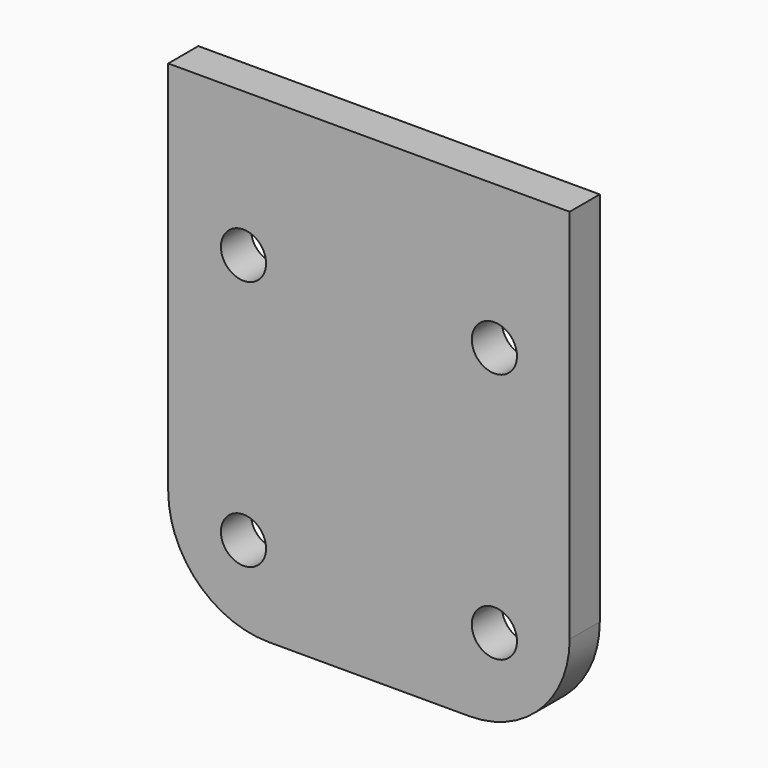
from build123d import *

# Parameters (mm, degrees)
CYLINDER007_R            = 1.8
CYLINDER007_DEPTH        = 10
ARRAY004_X_COUNT         = 2
ARRAY004_X_PITCH         = 20
ARRAY004_Y_COUNT         = 2
ARRAY004_Y_PITCH         = 20
ARRAY004_PLACEMENT_ANGLE = 90
BOX021_W                 = 32
BOX021_H                 = 3
BOX021_DEPTH             = 38
FILLET_R                 = 8


with BuildPart() as top_bolt_hole_array:
    # Cylinder007 → Cylinder007 (new body)
    with BuildSketch(Plane.XY):
        Circle(CYLINDER007_R)
    extrude(amount=CYLINDER007_DEPTH)

    # Array004 X: top bolt hole array ×2


with BuildPart() as top_bolt_hole_array_1:
    add(top_bolt_hole_array.part)
    with Locations(*[(i * ARRAY004_X_PITCH, 0, 0) for i in range(1, ARRAY004_X_COUNT)]):
        add(top_bolt_hole_array.part)

    # Array004 Y: top bolt hole array ×2


with BuildPart() as top_bolt_hole_array_2:
    add(top_bolt_hole_array_1.part)
    with Locations(*[(0, i * ARRAY004_Y_PITCH, 0) for i in range(1, ARRAY004_Y_COUNT)]):
        add(top_bolt_hole_array_1.part)


with BuildPart() as top_bolt_hole_array_3:
    # Array004 placement: moved
    add(top_bolt_hole_array_2.part.moved(Location((24, 88, 16))).rotate(Axis((24, 88, 16), (1, 0, 0)), ARRAY004_PLACEMENT_ANGLE))


with BuildPart() as cut001005:
    # Box021 → Box021 (new body)
    with BuildSketch(Plane(origin=(18, 82, 9.5), x_dir=(1, 0, 0), z_dir=(0, 0, 1))):
        with Locations((16, 1.5)):
            Rectangle(BOX021_W, BOX021_H)
    extrude(amount=BOX021_DEPTH)

    # Fillet
    fillet_edges = [cut001005.edges().sort_by_distance(p)[0] for p in [
        (18, 83.5, 9.5),
        (50, 83.5, 9.5),
    ]]
    fillet(fillet_edges, radius=FILLET_R)

    # Cut001005: cut top bolt hole array
    add(top_bolt_hole_array_3.part, mode=Mode.SUBTRACT)


solid = cut001005.part
